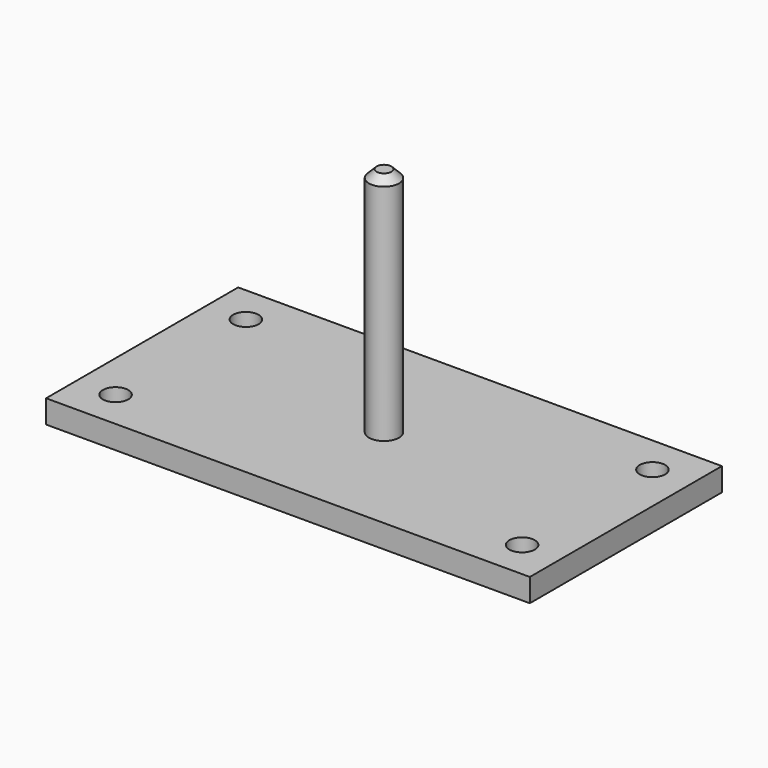
from build123d import *

# Parameters (mm, degrees)
F0_R     = 1.95
F1_DEPTH = 30
F2_SIZE  = 1
F0_W     = 62.6598149538
F0_H     = 31.0992728919
F0_R_2   = 15
F3_DEPTH = 3
F4_D     = 3.3
F4_DEPTH = 10
F4_TIP   = 0.9914200214


with BuildPart() as f1:
    # F0 (on Top) → F1 (new body)
    with BuildSketch(Plane.XY):
        Circle(F0_R)
    extrude(amount=F1_DEPTH)

    # F2
    f2_edges = [f1.edges().sort_by_distance(p)[0] for p in [
        (-1.95, 0, 30),
    ]]
    chamfer(f2_edges, length=F2_SIZE)

    # F0 (on Top) → F3 (join)
    with BuildSketch(Plane.XY):
        Rectangle(F0_W, F0_H)
        Circle(F0_R_2, mode=Mode.SUBTRACT)
        Circle(F0_R_2)
        Circle(F0_R, mode=Mode.SUBTRACT)
        Circle(F0_R)
    extrude(amount=-F3_DEPTH)

    # F4
    with Locations(Plane.XY):
        with Locations((-26.3299074769, 10.5496364459), (26.3299074769, 10.5496364459), (26.3299074769, -10.5496364459), (-26.3299074769, -10.5496364459)):
            Hole(F4_D / 2, depth=F4_DEPTH)
            with Locations((0, 0, -(F4_DEPTH + F4_TIP / 2))):  # 118° drill point
                Cone(0, F4_D / 2, F4_TIP, mode=Mode.SUBTRACT)


solid = f1.part
